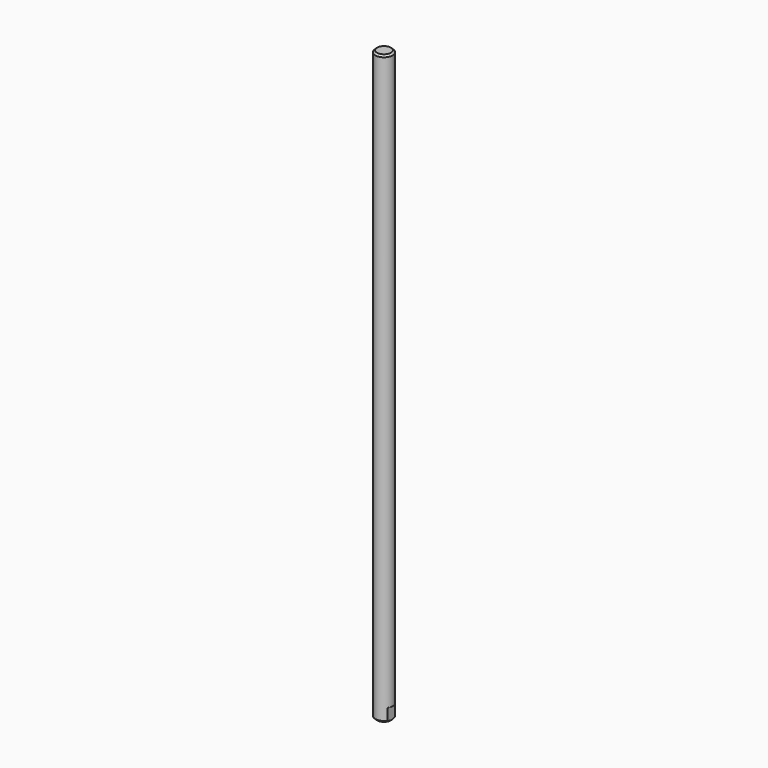
from build123d import *

# Parameters (mm, degrees)
F0_R     = 10
F1_DEPTH = 675
F2_SIZE  = 2
F4_W     = 21
F4_H     = 15
F5_DEPTH = 1.5


with BuildPart() as f1:
    # F0 (on Top) → F1 (new body)
    with BuildSketch(Plane.XY):
        Circle(F0_R)
    extrude(amount=F1_DEPTH)

    # F2
    f2_edges = [f1.edges().sort_by_distance(p)[0] for p in [
        (-10, 0, 0),
        (-10, 0, 675),
    ]]
    chamfer(f2_edges, length=F2_SIZE)

    # F4 (on offset) → F5 (cut)
    with BuildSketch(Plane.YZ.offset(10)):
        with Locations((0, 7.5)):
            Rectangle(F4_W, F4_H)
    extrude(amount=-F5_DEPTH, mode=Mode.SUBTRACT)


solid = f1.part
